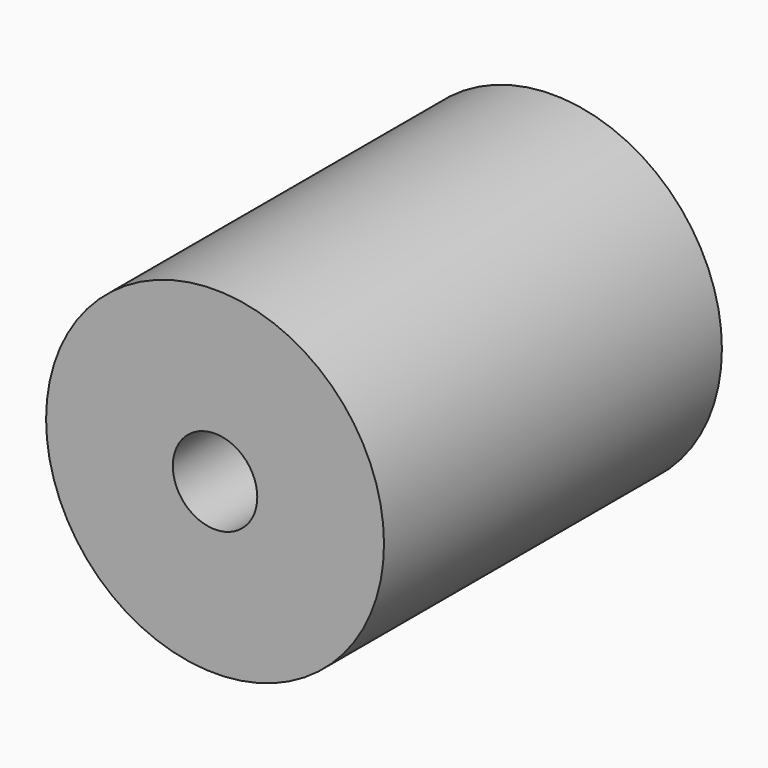
from build123d import *

# Parameters (mm, degrees)
F3_R     = 10
F3_R_2   = 4
F0_DEPTH = 12.5
F1_R     = 10
F1_R_2   = 4
F1_R_3   = 2.5
F2_DEPTH = 12.5


with BuildPart() as f0:
    # F3 (on Front) → F0 (new body)
    with BuildSketch(Plane.XZ):
        Circle(F3_R)
        Circle(F3_R_2, mode=Mode.SUBTRACT)
    extrude(amount=F0_DEPTH)

    # F1 (on face) → F2 (join)
    with BuildSketch(Plane.XZ.offset(12.5)):
        Circle(F1_R)
        Circle(F1_R_2, mode=Mode.SUBTRACT)
        Circle(F1_R_2)
        Circle(F1_R_3, mode=Mode.SUBTRACT)
    extrude(amount=F2_DEPTH)


solid = f0.part
